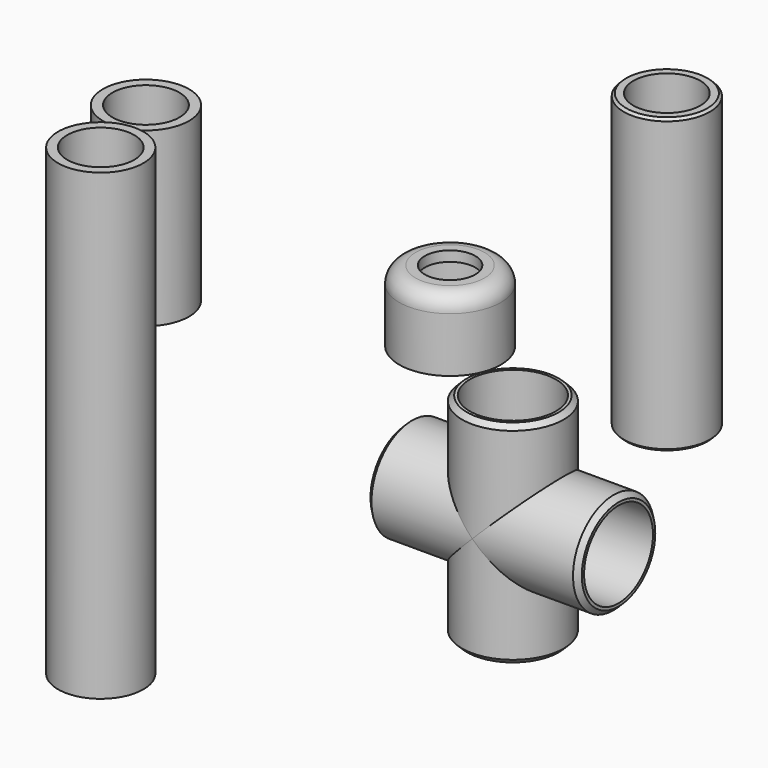
from build123d import *

# Parameters (mm, degrees)
F0_R      = 15.875
F0_R_2    = 13.462
F1_DEPTH  = 33.02
F2_R      = 15.875
F2_R_2    = 13.462
F3_DEPTH  = 33.02
F4_R      = 11.176
F5_DEPTH  = 76.2
F6_R      = 11.176
F7_DEPTH  = 76.2
F8_SIZE   = 1.524
F9_R      = 13.462
F9_R_2    = 10.4775
F10_DEPTH = 91.694
F11_SIZE  = 0.762
F12_R     = 15.875
F12_R_2   = 13.462
F13_DEPTH = 19.05
F14_R     = 15.875
F15_DEPTH = 3.175
F16_R     = 5.08
F17_R     = 7.874
F18_DEPTH = 25.4
F19_R     = 13.335
F19_R_2   = 10.4775
F20_DEPTH = 72.39
F21_R     = 13.462
F21_R_2   = 10.4775
F22_DEPTH = 53.848


with BuildPart() as f1:
    # F0 (on Top) → F1 (new body, symmetric)
    with BuildSketch(Plane.XY):
        Circle(F0_R)
        Circle(F0_R_2, mode=Mode.SUBTRACT)
    extrude(amount=F1_DEPTH, both=True)

    # F2 (on Right) → F3 (join, symmetric)
    with BuildSketch(Plane.YZ):
        Circle(F2_R)
        Circle(F2_R_2, mode=Mode.SUBTRACT)
    extrude(amount=F3_DEPTH, both=True)

    # F4 (on face) → F5 (cut)
    with BuildSketch(Plane.XY.offset(33.02)):
        Circle(F4_R)
    extrude(amount=-F5_DEPTH, mode=Mode.SUBTRACT)

    # F6 (on face) → F7 (cut)
    with BuildSketch(Plane.YZ.offset(33.02)):
        Circle(F6_R)
    extrude(amount=-F7_DEPTH, mode=Mode.SUBTRACT)

    # F8
    f8_edges = [f1.edges().sort_by_distance(p)[0] for p in [
        (-15.875, 0, 33.02),
        (33.02, -15.875, 0),
        (-15.875, 0, -33.02),
        (-33.02, -15.875, 0),
    ]]
    chamfer(f8_edges, length=F8_SIZE)


with BuildPart() as f10:
    # F9 (on Top) → F10 (new body)
    with BuildSketch(Plane.XY):
        with Locations((0, 60.152246)):
            Circle(F9_R)
        with Locations((0, 60.152246)):
            Circle(F9_R_2, mode=Mode.SUBTRACT)
    extrude(amount=F10_DEPTH)

    # F11
    f11_edges = [f10.edges().sort_by_distance(p)[0] for p in [
        (-13.462, 60.152246, 0),
        (-13.462, 60.152246, 91.694),
    ]]
    chamfer(f11_edges, length=F11_SIZE)


with BuildPart() as f13:
    # F12 (on Top) → F13 (new body)
    with BuildSketch(Plane.XY):
        with Locations((-67.871451, 60.301173)):
            Circle(F12_R)
        with Locations((-67.871451, 60.301173)):
            Circle(F12_R_2, mode=Mode.SUBTRACT)
    extrude(amount=F13_DEPTH)

    # F14 (on face) → F15 (join)
    with BuildSketch(Plane.XY.offset(19.05)):
        with Locations((-67.871451, 60.301173)):
            Circle(F14_R)
    extrude(amount=F15_DEPTH)

    # F16
    f16_edges = [f13.edges().sort_by_distance(p)[0] for p in [
        (-83.746451, 60.301173, 22.225),
    ]]
    fillet(f16_edges, radius=F16_R)

    # F17 (on face) → F18 (cut)
    with BuildSketch(Plane.XY.offset(22.225)):
        with Locations((-67.871451, 60.301173)):
            Circle(F17_R)
    extrude(amount=-F18_DEPTH, mode=Mode.SUBTRACT)


with BuildPart() as f20:
    # F19 (on Top) → F20 (new body, symmetric)
    with BuildSketch(Plane.XY):
        with Locations((-113.150679, -19.578304)):
            Circle(F19_R)
        with Locations((-113.150679, -19.578304)):
            Circle(F19_R_2, mode=Mode.SUBTRACT)
    extrude(amount=F20_DEPTH, both=True)


with BuildPart() as f22:
    # F21 (on Top) → F22 (new body)
    with BuildSketch(Plane.XY):
        with Locations((-140.785351, 32.630503)):
            Circle(F21_R)
        with Locations((-140.785351, 32.630503)):
            Circle(F21_R_2, mode=Mode.SUBTRACT)
    extrude(amount=F22_DEPTH)


solid = Compound([f1.part, f10.part, f13.part, f20.part, f22.part])
